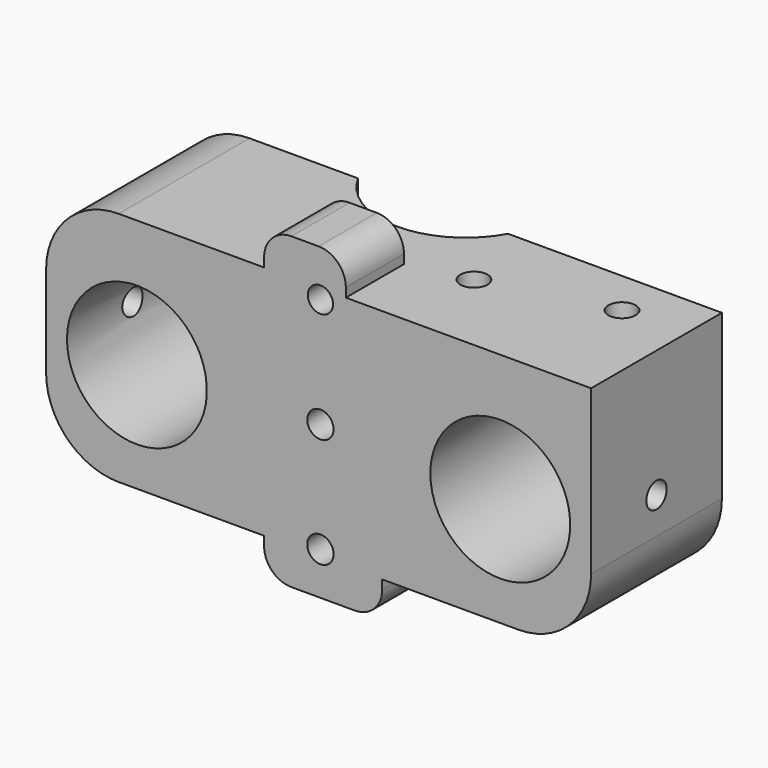
from build123d import *

# Parameters (mm, degrees)
BOX_W           = 60
BOX_H           = 18
BOX_DEPTH       = 26
SKETCH003_R     = 7.7
POCKET_DEPTH    = 18.001
SKETCH004_R     = 1.4
POCKET001_DEPTH = 5
SKETCH002_R     = 1.5
POCKET002_DEPTH = 6
SKETCH005_R     = 1.4
POCKET003_DEPTH = 5
SKETCH017_W     = 13
SKETCH017_H     = 8
PAD_DEPTH       = 4
SKETCH018_W     = 9
SKETCH018_H     = 8
PAD001_DEPTH    = 4
SKETCH008_R     = 9.4
POCKET015_DEPTH = 34.001
FILLET_R        = 3
SKETCH007_R     = 1.45
SKETCH007_R_2   = 1.388343
POCKET016_DEPTH = 6
FILLET002_R     = 8


with BuildPart() as part:
    # Box → Box (new body)
    with BuildSketch(Plane.XY):
        with Locations((30, 9)):
            Rectangle(BOX_W, BOX_H)
    extrude(amount=BOX_DEPTH)

    # Sketch003 → Pocket (cut, through all)
    with BuildSketch(Plane(origin=(0, 18, 0), x_dir=(-1, 0, 0), z_dir=(0, 1, 0))):
        with Locations((-50, 12)):
            Circle(SKETCH003_R)
        with Locations((-10, 12)):
            Circle(SKETCH003_R)
    extrude(amount=-POCKET_DEPTH, mode=Mode.SUBTRACT)

    # Sketch004 → Pocket001 (cut)
    with BuildSketch(Plane.YZ.offset(60)):
        with Locations((9, 12)):
            Circle(SKETCH004_R)
    extrude(amount=-POCKET001_DEPTH, mode=Mode.SUBTRACT)

    # Sketch002 → Pocket002 (cut)
    with BuildSketch(Plane.XY.offset(26)):
        with Locations((39.5, 9.5)):
            Circle(SKETCH002_R)
        with Locations((53, 13)):
            Circle(SKETCH002_R)
    extrude(amount=-POCKET002_DEPTH, mode=Mode.SUBTRACT)

    # Sketch005 → Pocket003 (cut)
    with BuildSketch(Plane(origin=(0, 0, 0), x_dir=(0, -1, 0), z_dir=(-1, 0, 0))):
        with Locations((-9, 12)):
            Circle(SKETCH005_R)
    extrude(amount=-POCKET003_DEPTH, mode=Mode.SUBTRACT)

    # Sketch017 → Pad (new body)
    with BuildSketch(Plane(origin=(0, 0, 0), x_dir=(1, 0, 0), z_dir=(0, 0, -1))):
        with Locations((30.5, -4)):
            Rectangle(SKETCH017_W, SKETCH017_H)
    extrude(amount=PAD_DEPTH)

    # Sketch018 → Pad001 (new body)
    with BuildSketch(Plane.XY.offset(26)):
        with Locations((28.5, 4)):
            Rectangle(SKETCH018_W, SKETCH018_H)
    extrude(amount=PAD001_DEPTH)

    # Sketch008 → Pocket015 (cut, through all)
    with BuildSketch(Plane.XY.offset(30)):
        with Locations((28.2, 22.5)):
            Circle(SKETCH008_R)
    extrude(amount=-POCKET015_DEPTH, mode=Mode.SUBTRACT)

    # Fillet
    fillet_edges = [part.edges().sort_by_distance(p)[0] for p in [
        (24, 4, 30),
        (33, 4, 30),
        (37, 4, -4),
        (24, 4, -4),
    ]]
    fillet(fillet_edges, radius=FILLET_R)

    # Sketch007 → Pocket016 (cut)
    with BuildSketch(Plane.XZ):
        with Locations((30.2, 12.8)):
            Circle(SKETCH007_R)
        with Locations((30.2, 0.7)):
            Circle(SKETCH007_R)
        with Locations((30.2, 24.9)):
            Circle(SKETCH007_R_2)
    extrude(amount=-POCKET016_DEPTH, mode=Mode.SUBTRACT)

    # Fillet002
    fillet002_edges = [part.edges().sort_by_distance(p)[0] for p in [
        (0, 9, 26),
        (0, 9, 0),
        (60, 9, 0),
    ]]
    fillet(fillet002_edges, radius=FILLET002_R)


solid = part.part
